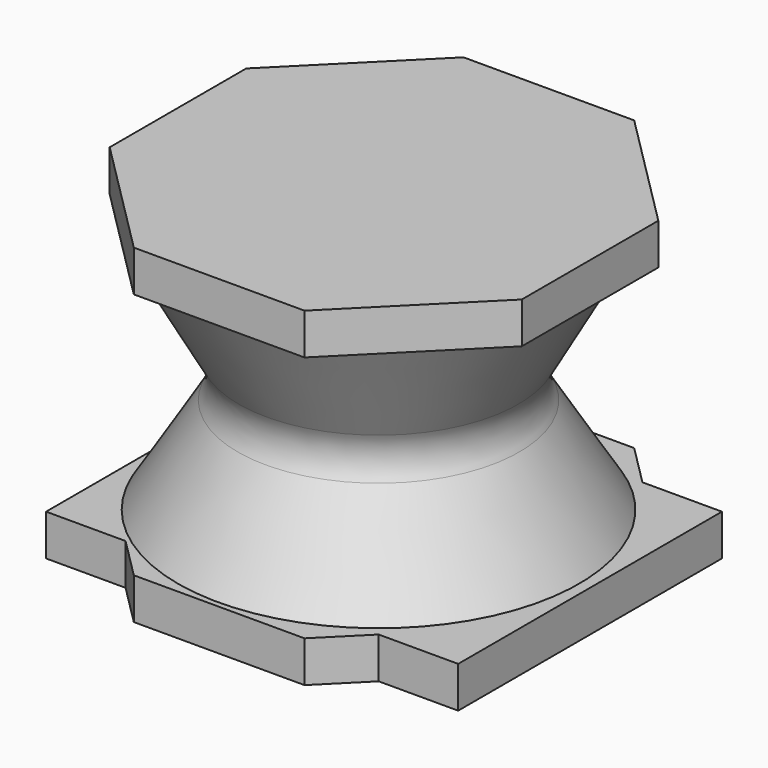
from build123d import *

# Parameters (mm, degrees)
F0_W     = 1.25
F0_H     = 4
F1_DEPTH = 0.5
F4_DEPTH = 0.5
F5_START = -3.5
F5_DEPTH = 0.5


with BuildPart() as f1:
    # F0 (on Top) → F1 (new body)
    with BuildSketch(Plane.XY):
        with Locations((-1.875, 0)):
            Rectangle(F0_W, F0_H)
    extrude(amount=F1_DEPTH)



with BuildPart() as f1b:
    # F0 (on Top) → F1, piece 2 (new body)
    with BuildSketch(Plane.XY):
        with Locations((1.875, 0)):
            Rectangle(F0_W, F0_H)
    extrude(amount=F1_DEPTH)


with BuildPart() as f4:
    # F3 (on offset) → F4 (new body)
    with BuildSketch(Plane.XY.offset(4)):
        Polygon((1.0355339059, 2.5), (-1.0355339059, 2.5), (-2.5, 1.0355339059), (-2.5, -1.0355339059), (-1.0355339059, -2.5), (1.0355339059, -2.5), (2.5, -1.0355339059), (2.5, 1.0355339059), align=None)
    extrude(amount=-F4_DEPTH)


with BuildPart() as f1_1:
    add(f1.part)

    add(f1b.part)  # F5 merges F1b
    # F3 (on offset) → F5 (join)
    with BuildSketch(Plane.XY.offset(4).offset(F5_START)):
        Polygon((1.0355339059, 2.5), (-1.0355339059, 2.5), (-2.5, 1.0355339059), (-2.5, -1.0355339059), (-1.0355339059, -2.5), (1.0355339059, -2.5), (2.5, -1.0355339059), (2.5, 1.0355339059), align=None)
    extrude(amount=-F5_DEPTH)


with BuildPart() as f7:
    # F6 (on Front) → F7 (revolve)
    with BuildSketch(Plane.XZ):
        with BuildLine():
            Line((-0.0661092199, 3.5), (-2.5, 3.5))
            Line((-2.5, 3.5), (-1.7629919787, 2.1777114235))
            ThreePointArc((-1.7629919787, 2.1777114235), (-1.6998659538, 1.9227631751), (-1.7746703106, 1.6709938113))
            Line((-1.7746703106, 1.6709938113), (-2.5, 0.5))
            Line((-2.5, 0.5), (-0.0661092199, 0.5))
            Line((-0.0661092199, 0.5), (-0.0661092199, 3.5))
        make_face()
    revolve(axis=Axis((-0.0661092199, 0, 2.4142542388), (0, 0, 1)))


solid = Compound([f4.part, f1_1.part, f7.part])
